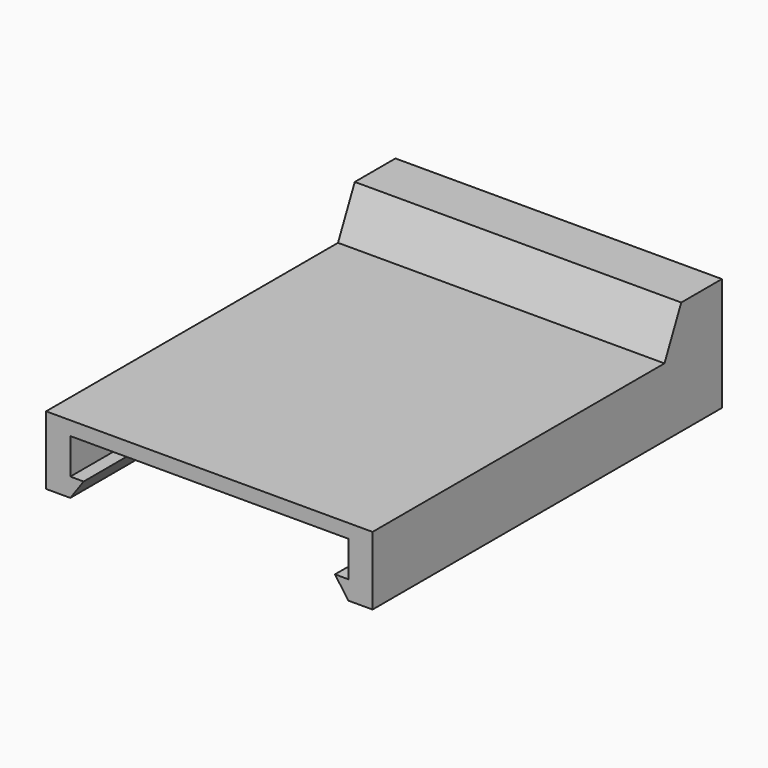
from build123d import *

# Parameters (mm, degrees)
F0_W      = 44.1452
F0_H      = 9.2456
F1_DEPTH  = 59.055
F2_W      = 44.1452
F2_H      = 9.7089702415
F3_DEPTH  = 6.096
F5_DEPTH  = 81.026
F6_DEPTH  = 82.296
F8_DEPTH  = 67.564
F9_W      = 40.8686
F9_H      = 7.366
F10_DEPTH = 15.748
F11_W     = 6.735065354
F11_H     = 7.366
F12_DEPTH = 12.7


with BuildPart() as f1:
    # F0 (on Front) → F1 (new body)
    with BuildSketch(Plane.XZ):
        Rectangle(F0_W, F0_H)
    extrude(amount=-F1_DEPTH)

    # F2 (on face) → F3 (join)
    with BuildSketch(Plane.XY.offset(4.6228)):
        with Locations((0, 54.2005148792)):
            Rectangle(F2_W, F2_H)
    extrude(amount=F3_DEPTH)

    # F4 (on face) → F5 (cut)
    with BuildSketch(Plane.XZ):
        Polygon((-9.4742, -2.3368), (-11.6586, -4.6228), (18.796, -4.6228), (16.9926, -2.0828), (18.796, -2.0828), (18.796, 2.7432), (-11.6586, 2.7432), (-11.6586, -2.3368), align=None)
    extrude(amount=-F5_DEPTH, mode=Mode.SUBTRACT)

    # F4 (on face) → F6 (cut)
    with BuildSketch(Plane.XZ):
        Polygon((-18.796, -4.6228), (-13.716, -4.6228), (-13.716, 2.7432), (-18.796, 2.7432), (-18.796, -2.0828), (-16.9926, -2.0828), align=None)
        Polygon((-9.4742, -2.3368), (-11.6586, -4.6228), (18.796, -4.6228), (16.9926, -2.0828), (18.796, -2.0828), (18.796, 2.7432), (-11.6586, 2.7432), (-11.6586, -2.3368), align=None)
    extrude(amount=-F6_DEPTH, mode=Mode.SUBTRACT)

    # F7 (on face) → F8 (cut)
    with BuildSketch(Plane(origin=(-22.0726, 0, 0), x_dir=(0, -1, 0), z_dir=(-1, 0, 0))):
        Polygon((-52.1785840392, 10.7188), (-49.3460297585, 4.6228), (-49.3460297585, 10.7188), align=None)
    extrude(amount=-F8_DEPTH, mode=Mode.SUBTRACT)

    # F9 (on face) → F10 (cut)
    with BuildSketch(Plane(origin=(0, 59.055, 0), x_dir=(-1, 0, 0), z_dir=(0, 1, 0))):
        with Locations((1.6383, -0.9398)):
            Rectangle(F9_W, F9_H)
    extrude(amount=-F10_DEPTH, mode=Mode.SUBTRACT)

    # F11 (on face) → F12 (cut)
    with BuildSketch(Plane.XZ):
        with Locations((-10.348467323, -0.9398)):
            Rectangle(F11_W, F11_H)
    extrude(amount=-F12_DEPTH, mode=Mode.SUBTRACT)


with BuildPart() as f13_1:
    # F13: instance of F1
    add(f1.part.mirror(Plane.YZ))


with BuildPart() as f15_1:
    # F15: instance of F13_1
    add(f13_1.part.mirror(Plane.YZ))


solid = f15_1.part
